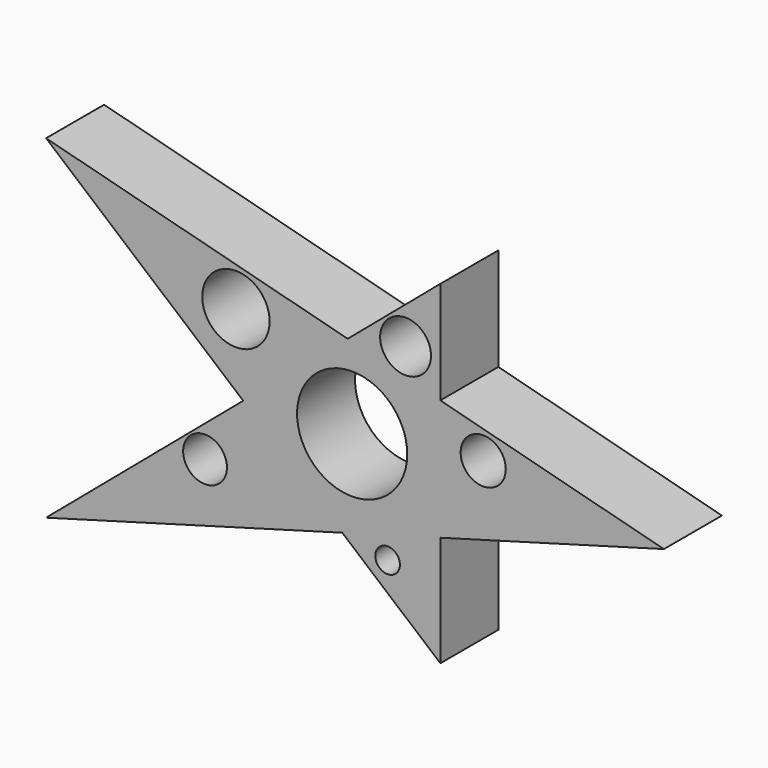
from build123d import *

# Parameters (mm, degrees)
F0_R     = 7.671652
F0_R_2   = 11.797664
F0_R_3   = 19.28929
F0_R_4   = 8.906007
F0_R_5   = 7.899491
F0_R_6   = 4.308386
F1_DEPTH = 25.4


with BuildPart() as f1:
    # F0 (on Front) → F1 (new body)
    with BuildSketch(Plane.XZ):
        Polygon((-38.145675, -2.179751), (-107.171118, -60.669735), (-3.448357, -31.581164), align=None)
        with Locations((-51.515188, -24.580937)):
            Circle(F0_R, mode=Mode.SUBTRACT)
        Polygon((-1.561323, 28.820676), (-107.171118, 56.310233), (-38.145675, -2.179751), align=None)
        with Locations((-40.692143, 25.255408)):
            Circle(F0_R_2, mode=Mode.SUBTRACT)
        Polygon((-38.145675, -2.179751), (-3.448357, -31.581164), (30.879768, -21.954), (30.879768, 20.376467), (-1.561323, 28.820676), align=None)
        Circle(F0_R_3, mode=Mode.SUBTRACT)
        Polygon((-1.561323, 28.820676), (30.879768, 20.376467), (30.879768, 56.310233), align=None)
        with Locations((18.708751, 33.058066)):
            Circle(F0_R_4, mode=Mode.SUBTRACT)
        Polygon((30.879768, -21.954), (109.162386, 0), (30.879768, 20.376467), align=None)
        with Locations((45.892209, 6.629703)):
            Circle(F0_R_5, mode=Mode.SUBTRACT)
        Polygon((-3.448357, -31.581164), (30.879768, -60.669735), (30.879768, -21.954), align=None)
        with Locations((12.416283, -34.900583)):
            Circle(F0_R_6, mode=Mode.SUBTRACT)
    extrude(amount=F1_DEPTH)


solid = f1.part
